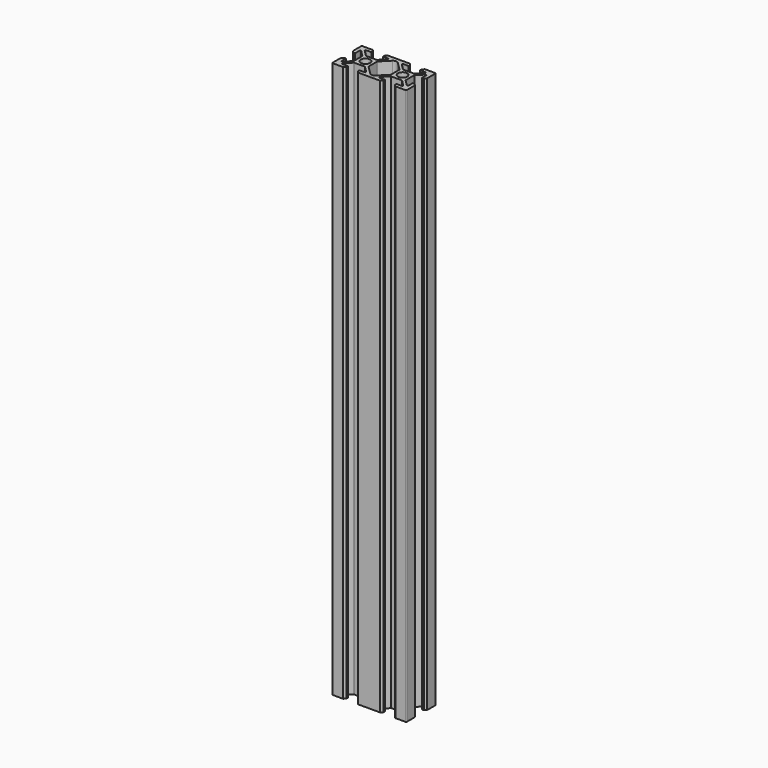
from build123d import *

# Parameters (mm, degrees)
SKETCH010_R     = 2.5
PAD007_DEPTH    = 300
FILLET008_R     = 2
FILLET009_R     = 0.4
FILLET010_R     = 0.5
CHAMFER002_SIZE = 1


with BuildPart() as part:
    # Sketch010 → Pad007 (new body)
    with BuildSketch(Plane.XY):
        Polygon((-12.93934, 4), (-7.06066, 4), (-3.06066, 8), (-6.9, 8), (-6.9, 10), (6.9, 10), (6.9, 8), (3.06066, 8), (7.06066, 4), (12.93934, 4), (16.93934, 8), (13.1, 8), (13.1, 10), (20, 10), (20, 3.1), (18, 3.1), (18, 6.93934), (14, 2.93934), (14, -2.93934), (18, -6.93934), (18, -3.1), (20, -3.1), (20, -10), (13.1, -10), (13.1, -8), (16.93934, -8), (12.93934, -4), (7.06066, -4), (3.06066, -8), (6.9, -8), (6.9, -10), (-6.9, -10), (-6.9, -8), (-3.06066, -8), (-7.06066, -4), (-12.93934, -4), (-16.93934, -8), (-13.1, -8), (-13.1, -10), (-20, -10), (-20, -3.1), (-18, -3.1), (-18, -6.93934), (-14, -2.93934), (-14, 2.93934), (-18, 6.93934), (-18, 3.1), (-20, 3.1), (-20, 10), (-13.1, 10), (-13.1, 8), (-16.93934, 8), align=None)
        with Locations((-10, 0)):
            Circle(SKETCH010_R, mode=Mode.SUBTRACT)
        with Locations((10, 0)):
            Circle(SKETCH010_R, mode=Mode.SUBTRACT)
        Polygon((-6, -2.93934), (-6, 2.93934), (0, 8.93934), (6, 2.93934), (6, -2.93934), (0, -8.93934), align=None, mode=Mode.SUBTRACT)
    extrude(amount=PAD007_DEPTH)

    # Fillet008
    fillet008_edges = [part.edges().sort_by_distance(p)[0] for p in [
        (0, 8.93934, 150),
        (0, -8.93934, 150),
    ]]
    fillet(fillet008_edges, radius=FILLET008_R)

    # Fillet009
    fillet009_edges = [part.edges().sort_by_distance(p)[0] for p in [
        (-18, 6.93934, 150),
        (-16.93934, 8, 150),
        (-3.06066, 8, 150),
        (-6, 2.93934, 150),
        (-7.06066, 4, 150),
        (-12.93934, 4, 150),
        (-14, 2.93934, 150),
        (-16.93934, -8, 150),
        (-18, -6.93934, 150),
        (-3.06066, -8, 150),
        (3.06066, -8, 150),
        (7.06066, -4, 150),
        (12.93934, -4, 150),
        (-12.93934, -4, 150),
        (-7.06066, -4, 150),
        (3.06066, 8, 150),
        (16.93934, 8, 150),
        (18, 6.93934, 150),
        (18, -6.93934, 150),
        (16.93934, -8, 150),
        (6, 2.93934, 150),
        (6, -2.93934, 150),
        (-6, -2.93934, 150),
    ]]
    fillet(fillet009_edges, radius=FILLET009_R)

    # Fillet010
    fillet010_edges = [part.edges().sort_by_distance(p)[0] for p in [
        (20, -10, 150),
        (20, 10, 150),
        (-20, 10, 150),
        (-20, -10, 150),
    ]]
    fillet(fillet010_edges, radius=FILLET010_R)

    # Chamfer002
    chamfer002_edges = [part.edges().sort_by_distance(p)[0] for p in [
        (20, 3.1, 150),
        (20, -3.1, 150),
        (13.1, 10, 150),
        (6.9, 10, 150),
        (-6.9, 10, 150),
        (-13.1, 10, 150),
        (-20, 3.1, 150),
        (-20, -3.1, 150),
        (-13.1, -10, 150),
        (-6.9, -10, 150),
        (6.9, -10, 150),
        (13.1, -10, 150),
    ]]
    chamfer(chamfer002_edges, length=CHAMFER002_SIZE)


solid = part.part
